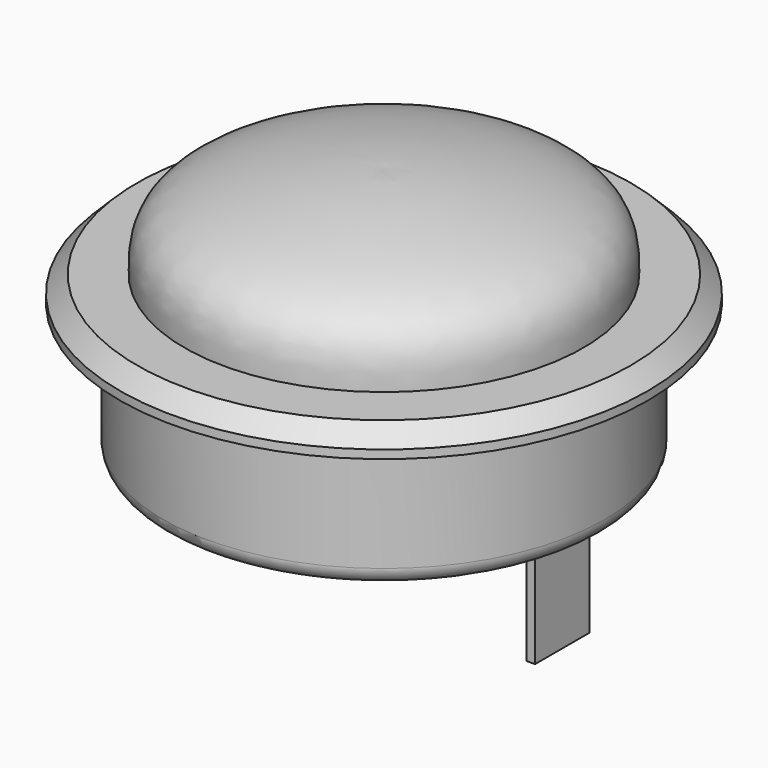
from build123d import *

# Parameters (mm, degrees)
F0_R     = 31.1
F1_DEPTH = 3
F2_SIZE  = 2
F3_R     = 26
F4_DEPTH = 16
F5_R     = 2
F6_W     = 1
F6_H     = 8
F7_DEPTH = 13


with BuildPart() as f1:
    # F0 (on Top) → F1 (new body)
    with BuildSketch(Plane.XY):
        Circle(F0_R)
    extrude(amount=F1_DEPTH)

    # F2
    f2_edges = [f1.edges().sort_by_distance(p)[0] for p in [
        (-31.1, 0, 3),
    ]]
    chamfer(f2_edges, length=F2_SIZE)

    # F3 (on face) → F4 (join)
    with BuildSketch(Plane(origin=(0, 0, 0), x_dir=(1, 0, 0), z_dir=(0, 0, -1))):
        Circle(F3_R)
    extrude(amount=F4_DEPTH)

    # F5
    f5_edges = [f1.edges().sort_by_distance(p)[0] for p in [
        (-26, 0, -16),
    ]]
    fillet(f5_edges, radius=F5_R)

    # F6 (on face) → F7 (join)
    with BuildSketch(Plane(origin=(0, 0, -16), x_dir=(1, 0, 0), z_dir=(0, 0, -1))):
        with Locations((-20.5, 0)):
            Rectangle(F6_W, F6_H)
        with Locations((20.5, 0)):
            Rectangle(F6_W, F6_H)
    extrude(amount=F7_DEPTH)

    # F9 (on Front) → F10 (revolve)
    with BuildSketch(Plane.XZ):
        with BuildLine():
            Line((-23.5, 3), (0, 3))
            Line((0, 3), (0, 14))
            add(Edge.make_bspline(
                [(-23.5, 3), (-23.5445970751, 5.3470100891), (-23.3472398778, 11.6386271394), (-3.4499369243, 14.3252252988), (-0.5936216616, 14), (0, 14)],
                knots=[0, 0, 0, 0, 0.3018049736, 0.7936654017, 1, 1, 1, 1], degree=3))
        make_face()
    revolve(axis=Axis((0, 0, 8.5), (0, 0, 1)))


solid = f1.part
